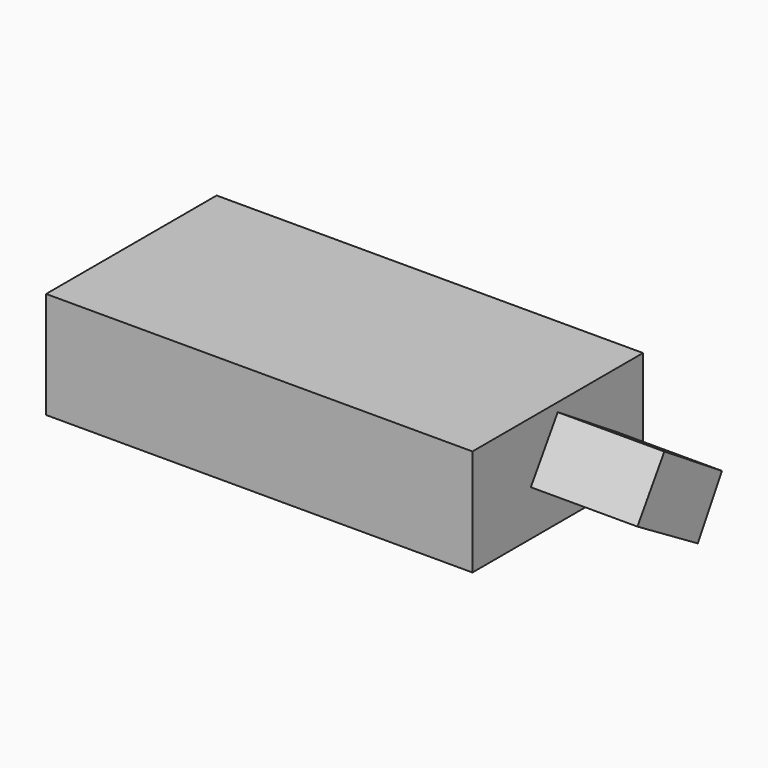
from build123d import *

# Parameters (mm, degrees)
F0_W     = 100
F0_H     = 50
F1_DEPTH = 25
F3_DEPTH = 25


with BuildPart() as f1:
    # F0 (on Top) → F1 (new body)
    with BuildSketch(Plane.XY):
        with Locations((50, 25)):
            Rectangle(F0_W, F0_H)
    extrude(amount=F1_DEPTH)

    # F2 (on face) → F3 (join)
    with BuildSketch(Plane.YZ.offset(100)):
        Polygon((25, 22.938415), (17.111169, 10.655262), (34.786861, 0), (41.884677, 12.094265), align=None)
    extrude(amount=F3_DEPTH)


solid = f1.part
